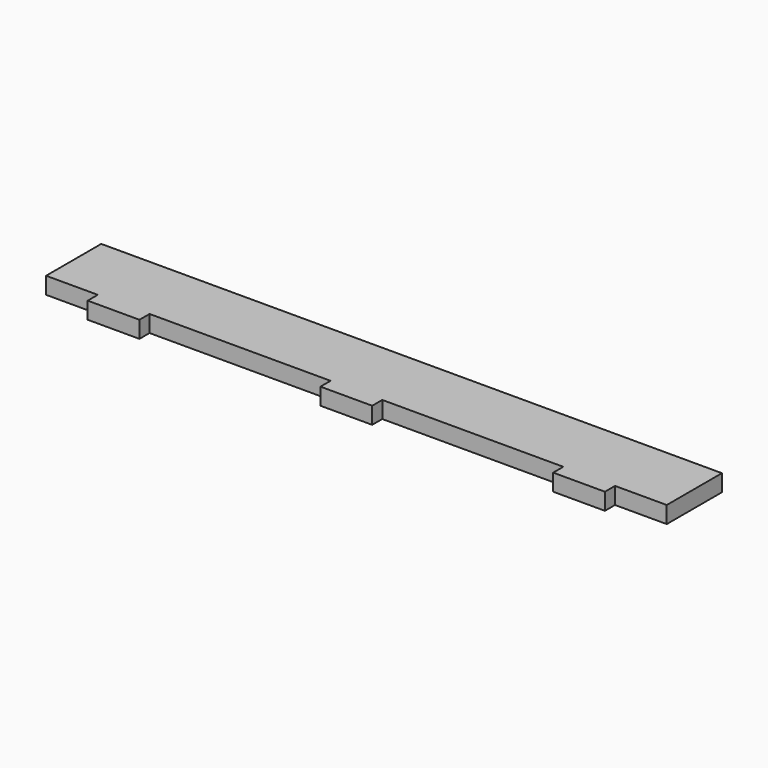
from build123d import *

# Parameters (mm, degrees)
F0_W     = 457.2
F0_H     = 50.8
F1_DEPTH = 12.3952
F2_W     = 38.1
F2_H     = 12.3952
F3_DEPTH = 9.2964


with BuildPart() as f1:
    # F0 (on Top) → F1 (new body)
    with BuildSketch(Plane.XY):
        with Locations((156.012788, 22.119167)):
            Rectangle(F0_W, F0_H)
    extrude(amount=F1_DEPTH)

    # F2 (on face) → F3 (join)
    with BuildSketch(Plane.XZ.offset(3.280833)):
        with Locations((-15.437212, 6.1976)):
            Rectangle(F2_W, F2_H)
        with Locations((156.012788, 6.1976)):
            Rectangle(F2_W, F2_H)
        with Locations((327.462788, 6.1976)):
            Rectangle(F2_W, F2_H)
    extrude(amount=F3_DEPTH)


solid = f1.part
